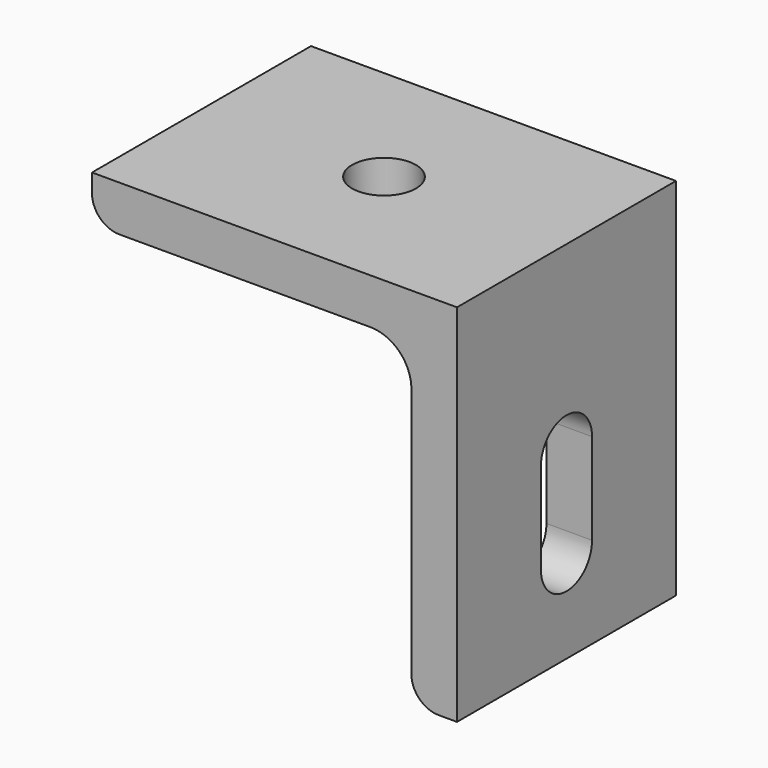
from build123d import *

# Parameters (mm, degrees)
F1_DEPTH = 30
F3_D     = 7
F5_DEPTH = 25


with BuildPart() as f1:
    # F0 (on Front) → F1 (new body)
    with BuildSketch(Plane.XZ):
        with BuildLine():
            ThreePointArc((-80.400344, -106.942194), (-77.515036, -107.988935), (-75.972026, -110.642194))
            ThreePointArc((-75.972026, -110.642194), (-75.9183, -111.040591), (-75.900344, -111.442194))
            Line((-75.900344, -111.442194), (-75.900344, -138.942194))
            ThreePointArc((-75.900344, -138.942194), (-75.021664, -141.063514), (-72.900344, -141.942194))
            Line((-72.900344, -141.942194), (-70.900344, -141.942194))
            Line((-70.900344, -141.942194), (-70.900344, -101.942194))
            Line((-70.900344, -101.942194), (-110.900344, -101.942194))
            Line((-110.900344, -101.942194), (-110.900344, -103.942194))
            ThreePointArc((-110.900344, -103.942194), (-110.021664, -106.063514), (-107.900344, -106.942194))
            Line((-107.900344, -106.942194), (-80.400344, -106.942194))
        make_face()
    extrude(amount=-F1_DEPTH)

    # F3 (through all)
    with Locations(Plane.XY.offset(-101.942194)):
        with Locations((-90.900344, 15)):
            Hole(F3_D / 2)

    # F4 (on face) → F5 (cut)
    with BuildSketch(Plane.YZ.offset(-70.900344)):
        with BuildLine():
            ThreePointArc((11.5, -131.942194), (15, -135.442194), (18.5, -131.942194))
            Line((18.5, -131.942194), (18.5, -121.942194))
            ThreePointArc((18.5, -121.942194), (15, -118.442194), (11.5, -121.942194))
            Line((11.5, -121.942194), (11.5, -131.942194))
        make_face()
    extrude(amount=-F5_DEPTH, mode=Mode.SUBTRACT)


solid = f1.part
